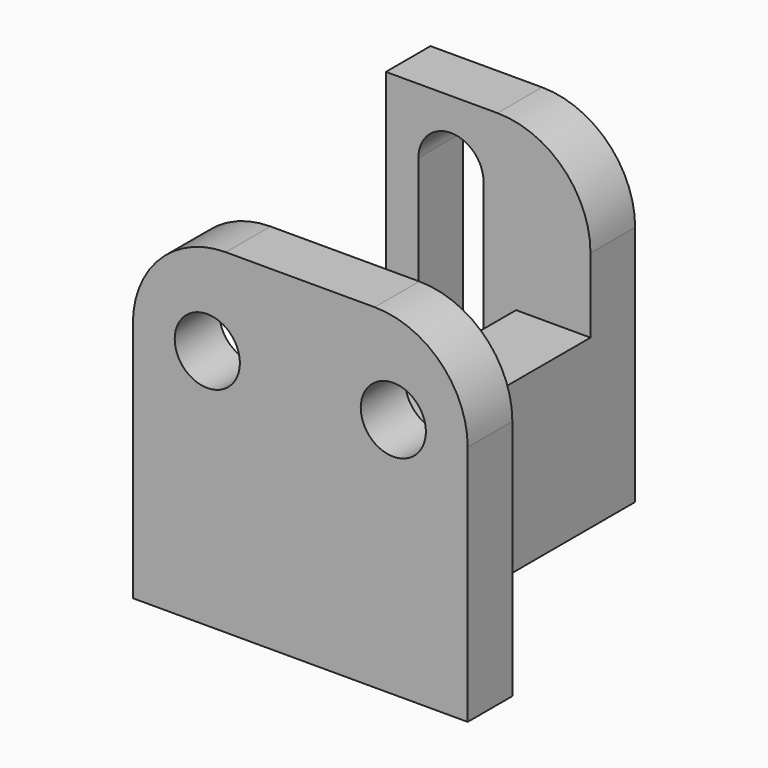
from build123d import *

# Parameters (mm, degrees)
F1_DEPTH = 3
F2_D     = 3.5
F3_W     = 4
F3_H     = 9
F4_DEPTH = 14
F5_W     = 4
F5_H     = 9
F6_DEPTH = 3
F7_R     = 5


with BuildPart() as f1:
    # F0 (on Front) → F1 (new body)
    with BuildSketch(Plane.XZ):
        Polygon((-9, 9), (-9, 0), (9, 0), (9, 9), (9, 18), (-9, 18), align=None)
    extrude(amount=F1_DEPTH)

    # F2 (through all)
    with Locations(Plane(origin=(0, 0, 0), x_dir=(1, 0, 0), z_dir=(0, 1, 0))):
        with Locations((-5, -13), (5, -13)):
            Hole(F2_D / 2)

    # F3 (on face) → F4 (join)
    with BuildSketch(Plane.XZ):
        with Locations((0, 4.5)):
            Rectangle(F3_W, F3_H)
    extrude(amount=-F4_DEPTH)

    # F5 (on face) → F6 (join)
    with BuildSketch(Plane(origin=(0, 14, 0), x_dir=(-1, 0, 0), z_dir=(0, 1, 0))):
        Polygon((9, 0), (9, 18), (-2, 18), (-2, 9), (2, 9), (2, 0), align=None)
        with BuildLine():
            ThreePointArc((5.5, 16.25), (6.7374368671, 15.7374368671), (7.25, 14.5))
            Line((7.25, 14.5), (7.25, 3.5))
            ThreePointArc((7.25, 3.5), (6.7374368671, 2.2625631329), (5.5, 1.75))
            ThreePointArc((5.5, 1.75), (4.2625631329, 2.2625631329), (3.75, 3.5))
            Line((3.75, 3.5), (3.75, 14.5))
            ThreePointArc((3.75, 14.5), (4.2625631329, 15.7374368671), (5.5, 16.25))
        make_face(mode=Mode.SUBTRACT)
        with Locations((0, 4.5)):
            Rectangle(F5_W, F5_H)
    extrude(amount=F6_DEPTH)

    # F7
    f7_edges = [f1.edges().sort_by_distance(p)[0] for p in [
        (9, -1.5, 18),
        (-9, -1.5, 18),
        (2, 15.5, 18),
    ]]
    fillet(f7_edges, radius=F7_R)


solid = f1.part
